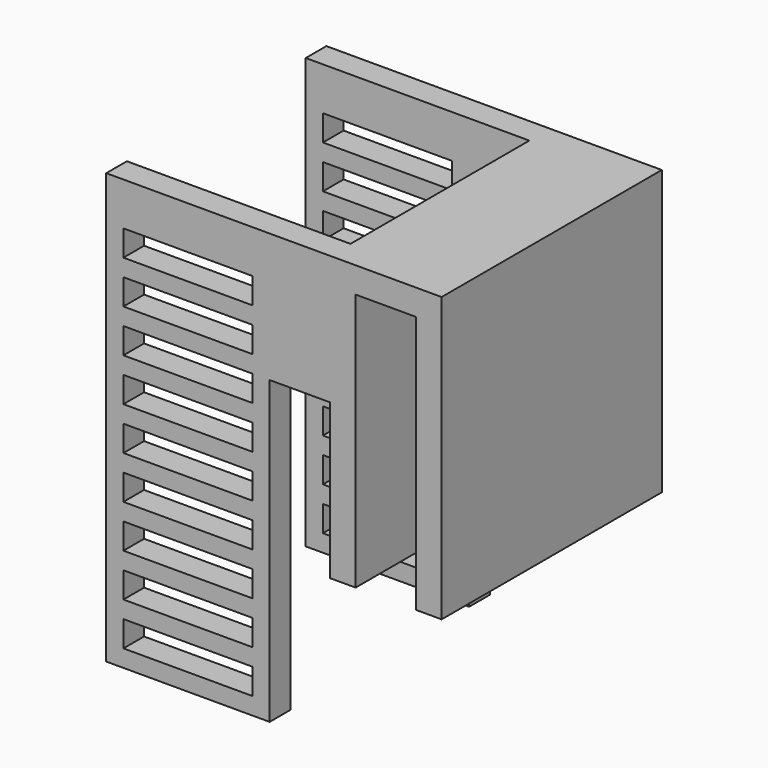
from build123d import *

# Parameters (mm, degrees)
PAD_DEPTH    = 32
SKETCH001_W  = 15
SKETCH001_H  = 3
PAD001_DEPTH = 26
SKETCH002_W  = 19
SKETCH002_H  = 3
PAD002_DEPTH = 35
SKETCH003_W  = 15
SKETCH003_H  = 3
PAD003_DEPTH = 26
SKETCH004_W  = 19
SKETCH004_H  = 3
PAD004_DEPTH = 35
SKETCH006_W  = 15
SKETCH006_H  = 3
POCKET_DEPTH = 100


with BuildPart() as part:
    # Sketch → Pad (new body)
    with BuildSketch(Plane.XZ):
        Polygon((0, 0), (0, 33), (13, 33), (13, 0), (10, 0), (10, 30), (3, 30), (3, 0), align=None)
    extrude(amount=PAD_DEPTH)

    # Sketch001 (on Face1 of Pad) → Pad001 (join)
    with BuildSketch(Plane(origin=(0, 0, 0), x_dir=(0, 0, -1), z_dir=(-1, 0, 0))):
        with Locations((-25.5, 1.5)):
            Rectangle(SKETCH001_W, SKETCH001_H)
    extrude(amount=PAD001_DEPTH)

    # Sketch002 (on Face3 of Pad001) → Pad002 (join)
    with BuildSketch(Plane(origin=(0, 0, 18), x_dir=(1, 0, 0), z_dir=(0, 0, -1))):
        with Locations((-16.5, 1.5)):
            Rectangle(SKETCH002_W, SKETCH002_H)
    extrude(amount=PAD002_DEPTH)

    # Sketch003 (on Face1 of Pad002) → Pad003 (join)
    with BuildSketch(Plane(origin=(0, 0, 0), x_dir=(0, 0, -1), z_dir=(-1, 0, 0))):
        with Locations((-25.5, 30.5)):
            Rectangle(SKETCH003_W, SKETCH003_H)
    extrude(amount=PAD003_DEPTH)

    # Sketch004 (on Face7 of Pad003) → Pad004 (join)
    with BuildSketch(Plane(origin=(0, 0, 18), x_dir=(1, 0, 0), z_dir=(0, 0, -1))):
        with Locations((-16.5, 30.5)):
            Rectangle(SKETCH004_W, SKETCH004_H)
    extrude(amount=PAD004_DEPTH)

    # Sketch006 (on Face30 of Pad004) → Pocket (cut)
    with BuildSketch(Plane.XZ.offset(32)):
        with Locations((-16.5, -13.5)):
            Rectangle(SKETCH006_W, SKETCH006_H)
        with Locations((-16.5, -8.5)):
            Rectangle(SKETCH006_W, SKETCH006_H)
        with Locations((-16.5, -3.5)):
            Rectangle(SKETCH006_W, SKETCH006_H)
        with Locations((-16.5, 1.5)):
            Rectangle(SKETCH006_W, SKETCH006_H)
        with Locations((-16.5, 6.5)):
            Rectangle(SKETCH006_W, SKETCH006_H)
        with Locations((-16.5, 11.5)):
            Rectangle(SKETCH006_W, SKETCH006_H)
        with Locations((-16.5, 16.5)):
            Rectangle(SKETCH006_W, SKETCH006_H)
        with Locations((-16.5, 21.5)):
            Rectangle(SKETCH006_W, SKETCH006_H)
        with Locations((-16.5, 26.5)):
            Rectangle(SKETCH006_W, SKETCH006_H)
    extrude(amount=-POCKET_DEPTH, mode=Mode.SUBTRACT)


solid = part.part
